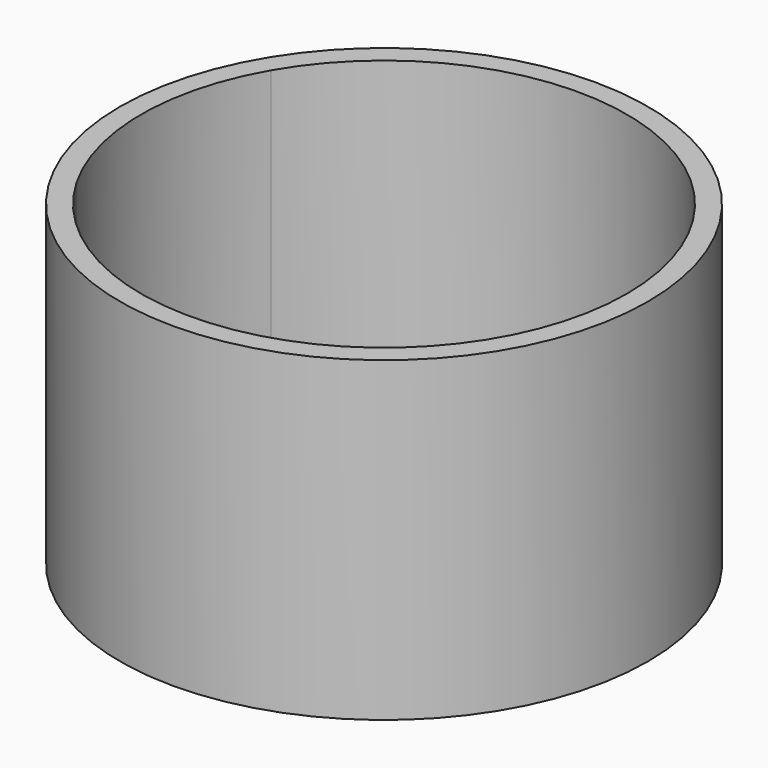
from build123d import *

# Parameters (mm, degrees)
F0_R     = 9
F0_R_2   = 8
F1_DEPTH = 2
F0_R_3   = 7
F2_DEPTH = 5
F0_R_4   = 25
F3_DEPTH = 30


with BuildPart() as f1:
    # F0 (on Top) → F1 (new body)
    with BuildSketch(Plane.XY):
        with BuildLine():
            ThreePointArc((-19.918584, -11.5), (5.952838, -22.216294), (23, 0))
            ThreePointArc((23, 0), (5.952838, 22.216294), (-19.918584, 11.5))
            Line((-19.918584, 11.5), (-18.186533, 10.5))
            Line((-18.186533, 10.5), (-8.660254, 5))
            ThreePointArc((-8.660254, 5), (-10, 0), (-8.660254, -5))
            Line((-8.660254, -5), (-18.186533, -10.5))
            Line((-18.186533, -10.5), (-19.918584, -11.5))
        make_face()
        Circle(F0_R, mode=Mode.SUBTRACT)
        Circle(F0_R)
        Circle(F0_R_2, mode=Mode.SUBTRACT)
        with BuildLine():
            Line((-18.186533, 10.5), (-19.918584, 11.5))
            ThreePointArc((-19.918584, 11.5), (-23, 0), (-19.918584, -11.5))
            Line((-19.918584, -11.5), (-18.186533, -10.5))
            ThreePointArc((-18.186533, -10.5), (-21, 0), (-18.186533, 10.5))
        make_face()
    extrude(amount=F1_DEPTH)

    # F0 (on Top) → F2 (join)
    with BuildSketch(Plane.XY):
        Circle(F0_R_2)
        Circle(F0_R_3, mode=Mode.SUBTRACT)
    extrude(amount=F2_DEPTH)

    # F0 (on Top) → F3 (join)
    with BuildSketch(Plane.XY):
        Circle(F0_R_4)
        with BuildLine():
            ThreePointArc((-19.918584, 11.5), (5.952838, 22.216294), (23, 0))
            ThreePointArc((23, 0), (5.952838, -22.216294), (-19.918584, -11.5))
            ThreePointArc((-19.918584, -11.5), (-23, 0), (-19.918584, 11.5))
        make_face(mode=Mode.SUBTRACT)
    extrude(amount=F3_DEPTH)


solid = f1.part
